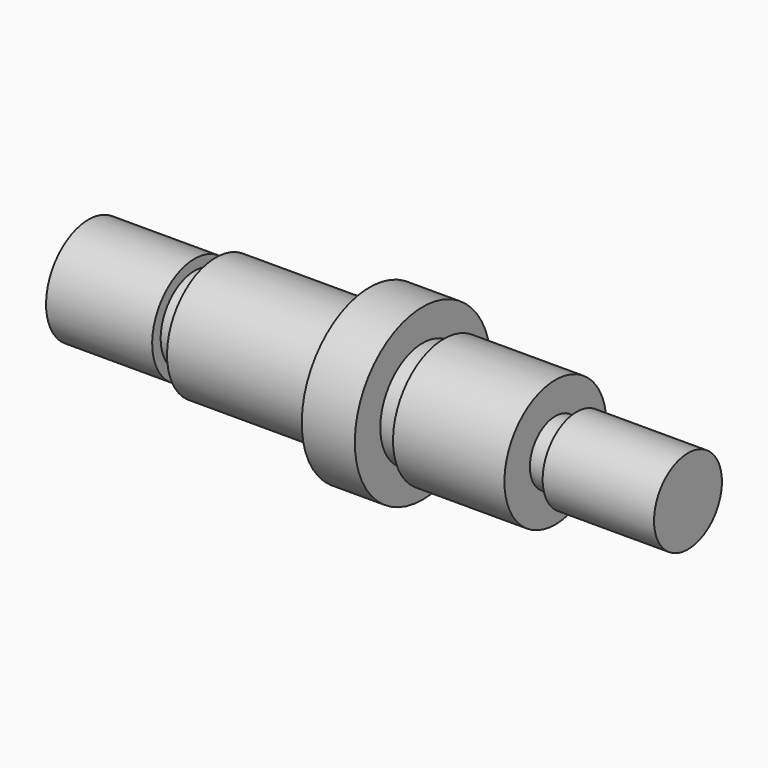
from build123d import *

# Parameters (mm, degrees)
F0_W   = 4
F0_H   = 8
F0_H_2 = 10
F0_H_3 = 6


with BuildPart() as f1:
    # F0 (on Front) → F1 (revolve)
    with BuildSketch(Plane.XZ):
        Polygon((20, 0), (0, 0), (0, -10), (20, -10), (20, -8), align=None)
        with Locations((22, -4)):
            Rectangle(F0_W, F0_H)
        Polygon((53, 0), (24, 0), (24, -8), (24, -11.5), (53, -11.5), align=None)
        Polygon((63, 0), (53, 0), (53, -11.5), (53, -16), (63, -16), (63, -10), align=None)
        with Locations((65, -5)):
            Rectangle(F0_W, F0_H_2)
        Polygon((88, 0), (67, 0), (67, -10), (67, -12), (88, -12), (88, -6), align=None)
        with Locations((90, -3)):
            Rectangle(F0_W, F0_H_3)
        Polygon((113, 0), (92, 0), (92, -6), (92, -8), (113, -8), align=None)
    revolve(axis=Axis((38.5, 0, 0), (1, 0, 0)))


solid = f1.part
